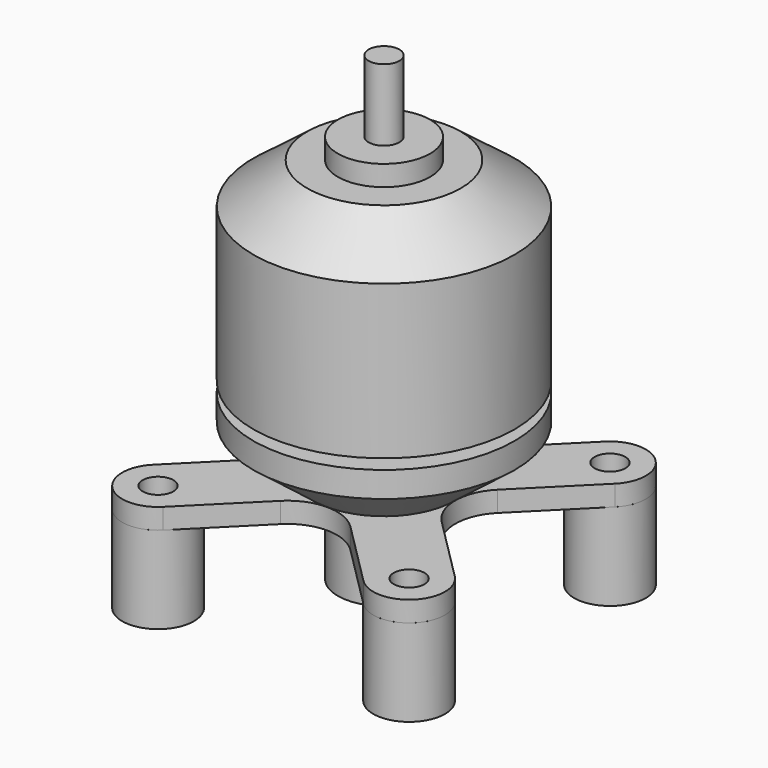
from build123d import *

# Parameters (mm, degrees)
F0_R     = 1.5
F0_R_2   = 5
F1_DEPTH = 2
F6_R     = 3.5
F6_R_2   = 1.5
F7_DEPTH = 8.5


with BuildPart() as f1:
    # F0 (on Top) → F1 (new body)
    with BuildSketch(Plane.XY):
        with BuildLine():
            Line((9.775126, 14.724874), (3.414214, 8.363961))
            ThreePointArc((3.414214, 8.363961), (0, 6.949747), (-3.414214, 8.363961))
            Line((-3.414214, 8.363961), (-9.775126, 14.724874))
            ThreePointArc((-9.775126, 14.724874), (-14.724874, 14.724874), (-14.724874, 9.775126))
            Line((-14.724874, 9.775126), (-8.363961, 3.414214))
            ThreePointArc((-8.363961, 3.414214), (-6.949747, 0), (-8.363961, -3.414214))
            Line((-8.363961, -3.414214), (-14.724874, -9.775126))
            ThreePointArc((-14.724874, -9.775126), (-14.724874, -14.724874), (-9.775126, -14.724874))
            Line((-9.775126, -14.724874), (-3.414214, -8.363961))
            ThreePointArc((-3.414214, -8.363961), (0, -6.949747), (3.414214, -8.363961))
            Line((3.414214, -8.363961), (9.775126, -14.724874))
            ThreePointArc((9.775126, -14.724874), (14.724874, -14.724874), (14.724874, -9.775126))
            Line((14.724874, -9.775126), (8.363961, -3.414214))
            ThreePointArc((8.363961, -3.414214), (6.949747, 0), (8.363961, 3.414214))
            Line((8.363961, 3.414214), (14.724874, 9.775126))
            ThreePointArc((14.724874, 9.775126), (14.724874, 14.724874), (9.775126, 14.724874))
        make_face()
        with Locations((-12.25, -12.25)):
            Circle(F0_R, mode=Mode.SUBTRACT)
        with Locations((12.25, -12.25)):
            Circle(F0_R, mode=Mode.SUBTRACT)
        with Locations((-12.25, 12.25)):
            Circle(F0_R, mode=Mode.SUBTRACT)
        Circle(F0_R_2, mode=Mode.SUBTRACT)
        with Locations((12.25, 12.25)):
            Circle(F0_R, mode=Mode.SUBTRACT)
    extrude(amount=F1_DEPTH)


with BuildPart() as f3:
    # F2 (on Front) → F3 (revolve)
    with BuildSketch(Plane.XZ):
        Polygon((12.75, 10), (12.75, 25), (7.5, 29), (4.5, 29), (4.5, 31), (1.5, 31), (1.5, 38), (0, 38), (0, -7), (4.5, -7), (4.5, 2), (1.5, 2), (1.5, 10), align=None)
    revolve(axis=Axis((0, 0, 15.5), (0, 0, -1)))


with BuildPart() as f5:
    # F4 (on Front) → F5 (revolve)
    with BuildSketch(Plane.XZ):
        Polygon((12.75, 9), (0, 9), (0, 2), (6.949747, 2), (12.75, 6.5), align=None)
    revolve(axis=Axis((0, 0, 5.5), (0, 0, 1)))


with BuildPart() as f7:
    # F6 (on face) → F7 (new body)
    with BuildSketch(Plane(origin=(0, 0, 0), x_dir=(1, 0, 0), z_dir=(0, 0, -1))):
        with Locations((12.25, 12.25)):
            Circle(F6_R)
        with Locations((12.25, 12.25)):
            Circle(F6_R_2, mode=Mode.SUBTRACT)
        with Locations((12.25, -12.25)):
            Circle(F6_R)
        with Locations((12.25, -12.25)):
            Circle(F6_R_2, mode=Mode.SUBTRACT)
        with Locations((-12.25, -12.25)):
            Circle(F6_R)
        with Locations((-12.25, -12.25)):
            Circle(F6_R_2, mode=Mode.SUBTRACT)
        with Locations((-12.25, 12.25)):
            Circle(F6_R)
        with Locations((-12.25, 12.25)):
            Circle(F6_R_2, mode=Mode.SUBTRACT)
    extrude(amount=F7_DEPTH)


solid = Compound([f1.part, f3.part, f5.part, f7.part])
